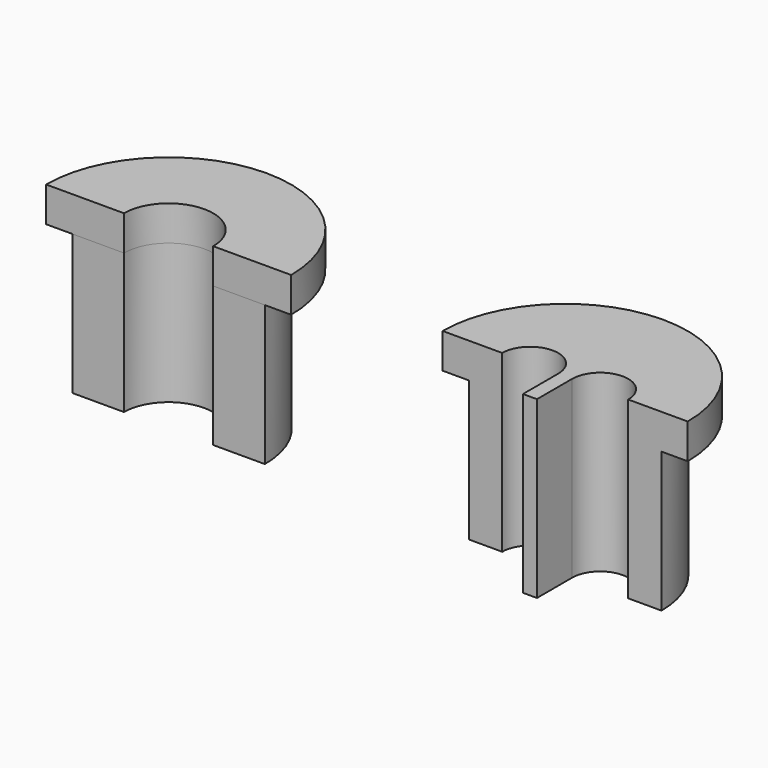
from build123d import *

# Parameters (mm, degrees)
F3_DEPTH = 4
F4_DEPTH = 1
F5_DEPTH = 4
F6_DEPTH = 1


with BuildPart() as f3:
    # F2 (on Top) → F3 (new body)
    with BuildSketch(Plane.XY):
        with BuildLine():
            Line((1.8, 0), (2.75, 0))
            ThreePointArc((2.75, 0), (0, 2.75), (-2.75, 0))
            Line((-2.75, 0), (-1.8, 0))
            ThreePointArc((-1.8, 0), (-1, 0.8), (-0.2, 0))
            Line((-0.2, 0), (-0.2, -1.2592160259))
            Line((-0.2, -1.2592160259), (0.2, -1.2592160259))
            Line((0.2, -1.2592160259), (0.2, 0))
            ThreePointArc((0.2, 0), (1, 0.8), (1.8, 0))
        make_face()
    extrude(amount=-F3_DEPTH)

    # F2 (on Top) → F4 (join)
    with BuildSketch(Plane.XY):
        with BuildLine():
            ThreePointArc((-2.75, 0), (0, 2.75), (2.75, 0))
            Line((2.75, 0), (3.5, 0))
            ThreePointArc((3.5, 0), (0, 3.5), (-3.5, 0))
            Line((-3.5, 0), (-2.75, 0))
        make_face()
        with BuildLine():
            Line((1.8, 0), (2.75, 0))
            ThreePointArc((2.75, 0), (0, 2.75), (-2.75, 0))
            Line((-2.75, 0), (-1.8, 0))
            ThreePointArc((-1.8, 0), (-1, 0.8), (-0.2, 0))
            Line((-0.2, 0), (-0.2, -1.2592160259))
            Line((-0.2, -1.2592160259), (0.2, -1.2592160259))
            Line((0.2, -1.2592160259), (0.2, 0))
            ThreePointArc((0.2, 0), (1, 0.8), (1.8, 0))
        make_face()
    extrude(amount=F4_DEPTH)


with BuildPart() as f5:
    # F2 (on Top) → F5 (new body)
    with BuildSketch(Plane.XY):
        with BuildLine():
            Line((-10.0544823095, 0), (-8.5794823095, 0))
            ThreePointArc((-8.5794823095, 0), (-11.3294823095, 2.75), (-14.0794823095, 0))
            Line((-14.0794823095, 0), (-12.6044823095, 0))
            ThreePointArc((-12.6044823095, 0), (-11.3294823095, 1.275), (-10.0544823095, 0))
        make_face()
    extrude(amount=-F5_DEPTH)


with BuildPart() as f6:
    # F2 (on Top) → F6 (new body)
    with BuildSketch(Plane.XY):
        with BuildLine():
            Line((-10.0544823095, 0), (-8.5794823095, 0))
            ThreePointArc((-8.5794823095, 0), (-11.3294823095, 2.75), (-14.0794823095, 0))
            Line((-14.0794823095, 0), (-12.6044823095, 0))
            ThreePointArc((-12.6044823095, 0), (-11.3294823095, 1.275), (-10.0544823095, 0))
        make_face()
        with BuildLine():
            ThreePointArc((-14.0794823095, 0), (-11.3294823095, 2.75), (-8.5794823095, 0))
            Line((-8.5794823095, 0), (-7.8294823095, 0))
            ThreePointArc((-7.8294823095, 0), (-11.3294823095, 3.5), (-14.8294823095, 0))
            Line((-14.8294823095, 0), (-14.0794823095, 0))
        make_face()
    extrude(amount=F6_DEPTH)


solid = Compound([f3.part, f5.part, f6.part])
